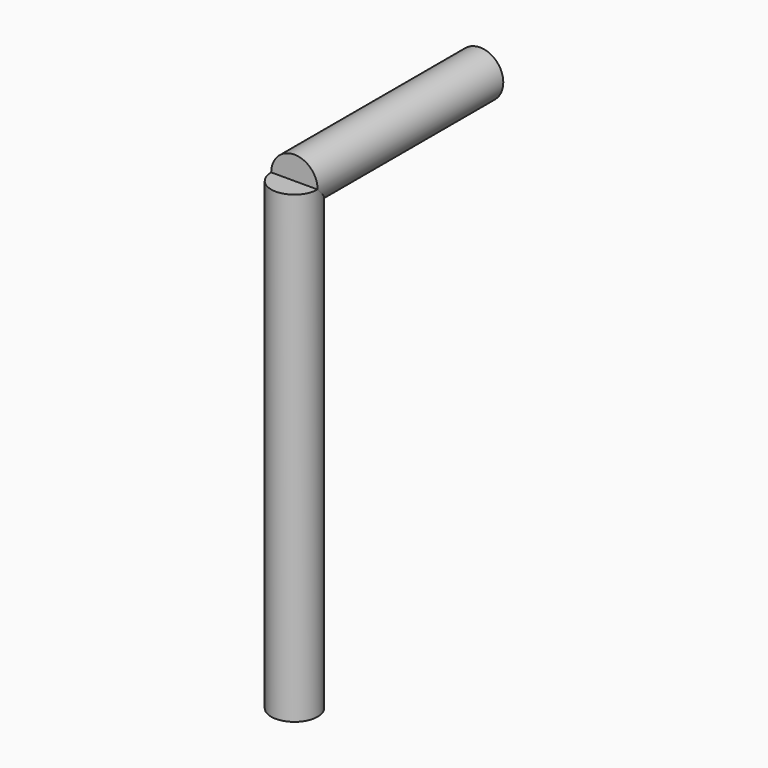
from build123d import *

# Parameters (mm, degrees)
F0_R     = 12.7
F1_DEPTH = 254
F2_R     = 12.7
F3_DEPTH = 127


with BuildPart() as f1:
    # F0 (on Top) → F1 (new body)
    with BuildSketch(Plane.XY):
        Circle(F0_R)
    extrude(amount=-F1_DEPTH)

    # F2 (on Front) → F3 (join)
    with BuildSketch(Plane.XZ):
        Circle(F2_R)
    extrude(amount=-F3_DEPTH)


solid = f1.part
